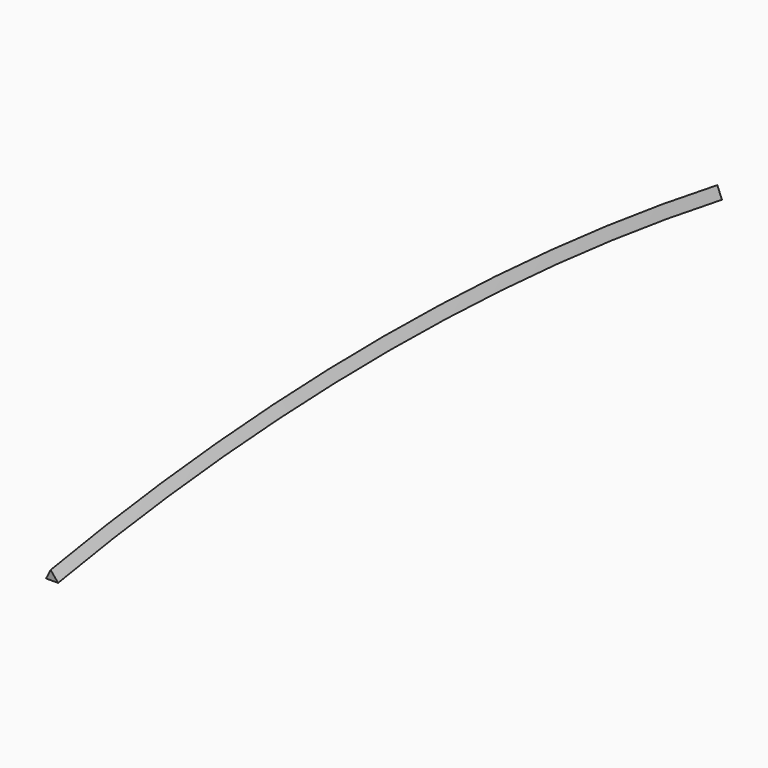
from build123d import *

# Parameters (mm, degrees)
F1_ANGLE = 20


with BuildPart() as f1:
    # F0 (on Front) → F1 (revolve, symmetric)
    with BuildSketch(Plane.XZ) as f1_sk:
        Polygon((-30.32, 67.320508), (-40.32, 50), (-20.32, 50), align=None)
    revolve(axis=Axis((-28.071713, 0, -3932.679492), (1, 0, 0)), revolution_arc=F1_ANGLE / 2)
    revolve(f1_sk.sketch, axis=Axis((-28.071713, 0, -3932.679492), (-1, 0, 0)), revolution_arc=F1_ANGLE / 2)


solid = f1.part
